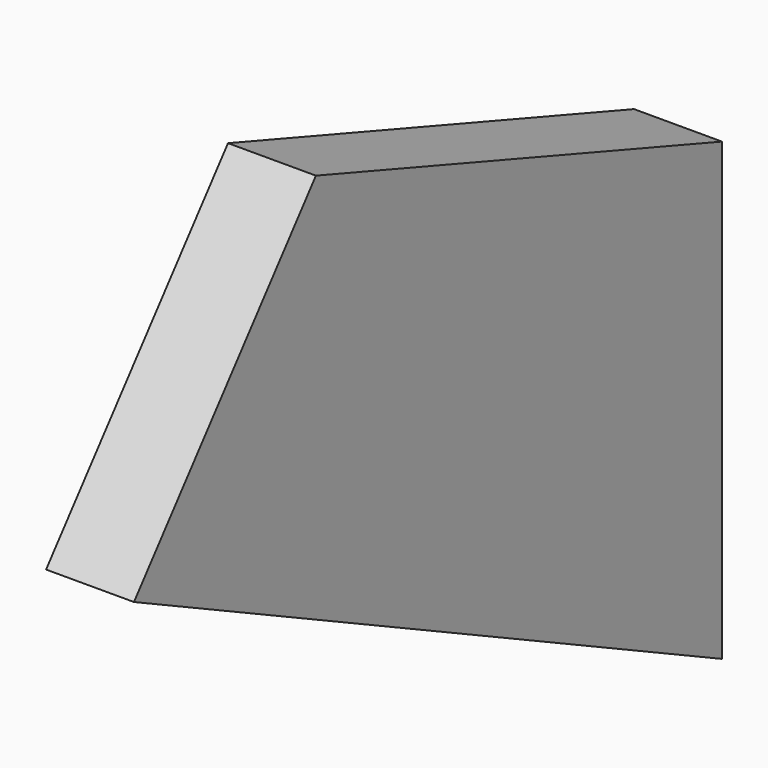
from build123d import *

# Parameters (mm, degrees)
F1_DEPTH = 12.7
F3_DEPTH = 12.7


with BuildPart() as f1:
    # F0 (on Right) → F1 (new body, symmetric)
    with BuildSketch(Plane.YZ):
        Polygon((153.562009, 65.476745), (-66.42352, 141.902268), (-164.988726, 19.268163), (153.562009, -131.92758), align=None)
    extrude(amount=F1_DEPTH, both=True)

    # F2 (on face) → F3 (join, symmetric)
    with BuildSketch(Plane.YZ.offset(12.7)):
        Polygon((-66.42352, 141.902268), (-164.988726, 19.268163), (153.562009, -131.92758), (153.562009, 65.476745), align=None)
    extrude(amount=F3_DEPTH, both=True)


solid = f1.part
